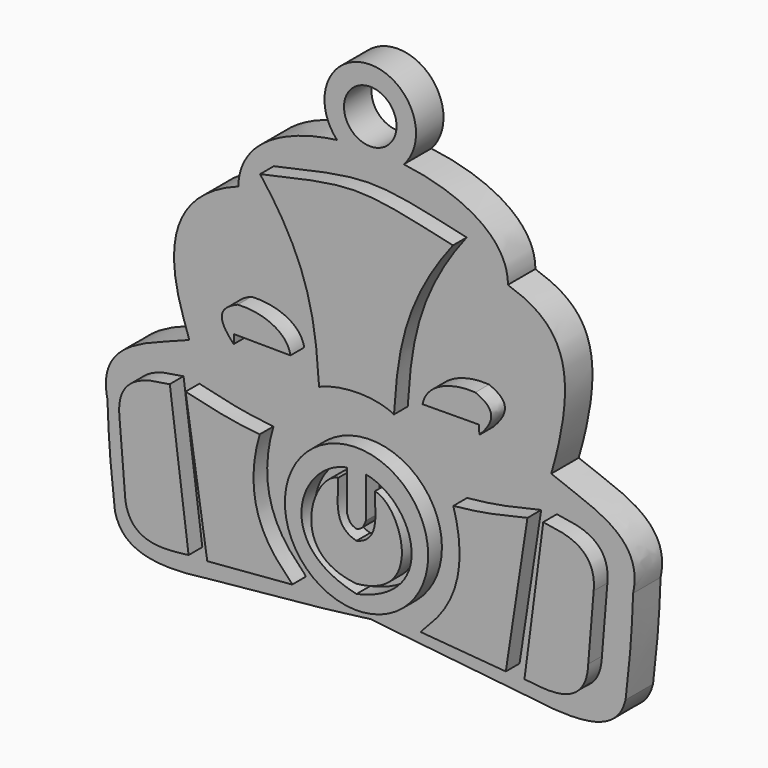
from build123d import *

# Parameters (mm, degrees)
F1_DEPTH = 7.62
F2_R     = 15.9024289895
F3_DEPTH = 3.81
F4_R     = 10.16
F4_R_2   = 5.8301463426
F5_DEPTH = 7.62


with BuildPart() as f1:
    # F0 (on Front) → F1 (new body)
    with BuildSketch(Plane.XZ):
        with BuildLine():
            add(Edge.make_bspline(
                [(-40.1583053172, -4.9346429296), (-41.517753154, 0), (-51.4870472252, 20.4417333007), (-29.2827170342, 28.5984221846)],
                knots=[0, 0, 0, 0, 35.2525868051, 35.2525868051, 35.2525868051, 35.2525868051], degree=3))
            add(Edge.make_bspline(
                [(-40.1583053172, -4.9346429296), (-47.4086999893, -8.1066894345), (-60.9708949924, -10.3864446282), (-58.3301782608, -22.388825193)],
                knots=[0, 0, 0, 0, 25.1965363645, 25.1965363645, 25.1965363645, 25.1965363645], degree=3))
            add(Edge.make_bspline(
                [(-56.6612333059, -43.7530614436), (-57.5675331056, -36.4271439612), (-58.0901131034, -29.8302993178), (-58.3301782608, -22.388825193)],
                knots=[0, 0, 0, 0, 21.4293249504, 21.4293249504, 21.4293249504, 21.4293249504], degree=3))
            add(Edge.make_bspline(
                [(-56.6612333059, -43.7530614436), (-55.5283613503, -48.0579771101), (-52.3933470249, -52.5153465569), (-36.3065376878, -50.2495989203)],
                knots=[0, 0, 0, 0, 21.3662966584, 21.3662966584, 21.3662966584, 21.3662966584], degree=3))
            add(Edge.make_bspline(
                [(-36.3065376878, -50.2495989203), (-2.5165608791, -47.1336860913), (-0.0633821424, -45.7783997594), (2.643325164, -46.8838522299), (36.3065376878, -50.2495989203)],
                knots=[0, 0, 0, 0, 0.5, 1, 1, 1, 1], degree=3))
            add(Edge.make_bspline(
                [(56.6612333059, -43.7530614436), (55.5283613503, -48.0579771101), (52.3933470249, -52.5153465569), (36.3065376878, -50.2495989203)],
                knots=[0, 0, 0, 0, 21.3662966584, 21.3662966584, 21.3662966584, 21.3662966584], degree=3))
            add(Edge.make_bspline(
                [(56.6612333059, -43.7530614436), (57.5675331056, -36.4271439612), (58.0901131034, -29.8302993178), (58.3301782608, -22.388825193)],
                knots=[0, 0, 0, 0, 21.4293249504, 21.4293249504, 21.4293249504, 21.4293249504], degree=3))
            add(Edge.make_bspline(
                [(40.1583053172, -4.9346429296), (47.4086999893, -8.1066894345), (60.9708949924, -10.3864446282), (58.3301782608, -22.388825193)],
                knots=[0, 0, 0, 0, 25.1965363645, 25.1965363645, 25.1965363645, 25.1965363645], degree=3))
            add(Edge.make_bspline(
                [(30.5330250412, 28.8249999285), (42.5414890051, 24.9732267112), (46.6400720179, 17.3897831701), (40.1583053172, -4.9346429296)],
                knots=[0, 0, 0, 0, 35.1049783691, 35.1049783691, 35.1049783691, 35.1049783691], degree=3))
            add(Edge.make_bspline(
                [(-29.2827170342, 28.5984221846), (-28.8021154702, 51.5458397567), (30.7341478765, 50.1055568457), (30.5330250412, 28.8249999285)],
                knots=[0, 0, 0, 0, 59.816171204, 59.816171204, 59.816171204, 59.816171204], degree=3))
        make_face()
    extrude(amount=F1_DEPTH)

    # F2 (on face) → F3 (join)
    with BuildSketch(Plane.XZ.offset(7.62)):
        with BuildLine():
            add(Edge.make_bspline(
                [(-8.3078695461, -2.173327608), (-9.086756967, 9.4867246225), (-10.0832600147, 20.5723419785), (-21.3999226689, 35.1223349571)],
                knots=[0, 0, 0, 0, 39.5268048436, 39.5268048436, 39.5268048436, 39.5268048436], degree=3))
            add(Edge.make_bspline(
                [(-8.3078695461, -2.173327608), (-3.2264096662, 0), (4.2422306724, 0), (8.3078695461, -2.173327608)],
                knots=[0, 0, 0, 0, 16.6157390922, 16.6157390922, 16.6157390922, 16.6157390922], degree=3))
            add(Edge.make_bspline(
                [(8.3078695461, -2.173327608), (9.086756967, 9.4867246225), (10.0832600147, 20.5723419785), (21.3999226689, 35.1223349571)],
                knots=[0, 0, 0, 0, 39.5268048436, 39.5268048436, 39.5268048436, 39.5268048436], degree=3))
            add(Edge.make_bspline(
                [(-21.3999226689, 35.1223349571), (0, 39.9668551981), (0, 39.9668551981), (21.3999226689, 35.1223349571)],
                knots=[0, 0, 0, 0, 42.7998453379, 42.7998453379, 42.7998453379, 42.7998453379], degree=3))
        make_face()
        with BuildLine():
            add(Edge.make_bspline(
                [(-37.9275381565, -12.7464113757), (-31.6863022745, -14.1866970807), (-28.6857057363, -15.0268636644), (-21.4842781425, -15.7470069826)],
                knots=[0, 0, 0, 0, 16.7147950596, 16.7147950596, 16.7147950596, 16.7147950596], degree=3))
            add(Edge.make_bspline(
                [(-37.9275381565, -12.7464113757), (-36.3272217413, -23.3885217458), (-34.726905326, -33.6705604568), (-33.1265889108, -44.3126708269)],
                knots=[0, 0, 0, 0, 31.9292632142, 31.9292632142, 31.9292632142, 31.9292632142], degree=3))
            add(Edge.make_bspline(
                [(-33.1265889108, -44.3126708269), (-27.5254780427, -43.6725442608), (-19.8839604855, -43.3924893538), (-14.2828496173, -42.7523627877)],
                knots=[0, 0, 0, 0, 18.9082276202, 18.9082276202, 18.9082276202, 18.9082276202], degree=3))
            add(Edge.make_bspline(
                [(-14.2828496173, -42.7523627877), (-15.3630636632, -40.7119579613), (-26.765326038, -33.7505787611), (-21.4842781425, -15.7470069826)],
                knots=[0, 0, 0, 0, 27.9490574969, 27.9490574969, 27.9490574969, 27.9490574969], degree=3))
        make_face()
        with BuildLine():
            add(Edge.make_bspline(
                [(37.9275381565, -12.7464113757), (36.3272217413, -23.3885217458), (34.726905326, -33.6705604568), (33.1265889108, -44.3126708269)],
                knots=[0, 0, 0, 0, 31.9292632142, 31.9292632142, 31.9292632142, 31.9292632142], degree=3))
            add(Edge.make_bspline(
                [(37.9275381565, -12.7464113757), (31.6863022745, -14.1866970807), (28.6857057363, -15.0268636644), (21.4842781425, -15.7470069826)],
                knots=[0, 0, 0, 0, 16.7147950596, 16.7147950596, 16.7147950596, 16.7147950596], degree=3))
            add(Edge.make_bspline(
                [(14.2828496173, -42.7523627877), (15.3630636632, -40.7119579613), (26.765326038, -33.7505787611), (21.4842781425, -15.7470069826)],
                knots=[0, 0, 0, 0, 27.9490574969, 27.9490574969, 27.9490574969, 27.9490574969], degree=3))
            add(Edge.make_bspline(
                [(33.1265889108, -44.3126708269), (27.5254780427, -43.6725442608), (19.8839604855, -43.3924893538), (14.2828496173, -42.7523627877)],
                knots=[0, 0, 0, 0, 18.9082276202, 18.9082276202, 18.9082276202, 18.9082276202], degree=3))
        make_face()
        with Locations((0, -27.2340420634)):
            Circle(F2_R)
        with BuildLine():
            add(Edge.make_bspline(
                [(-2.0750195254, -15.9081723541), (-12.8649724647, -17.8863294423), (-18.915290013, -35.7123315334), (0, -39.9451851845)],
                knots=[0, 0, 0, 0, 24.1264106704, 24.1264106704, 24.1264106704, 24.1264106704], degree=3))
            add(Edge.make_bspline(
                [(-2.0750195254, -15.9081723541), (-2.0750195254, -18.7184295307), (-2.0750195254, -22.1284379562), (-2.0750195254, -24.9386951327)],
                knots=[0, 0, 0, 0, 9.0305227786, 9.0305227786, 9.0305227786, 9.0305227786], degree=3))
            add(Edge.make_bspline(
                [(0, -27.2340420634), (-1.0937100742, -26.8915854394), (-1.5223931987, -26.6057960689), (-2.0750195254, -24.9386951327)],
                knots=[0, 0, 0, 0, 3.0942403854, 3.0942403854, 3.0942403854, 3.0942403854], degree=3))
            add(Edge.make_bspline(
                [(0, -27.2340420634), (1.0937100742, -26.8915854394), (1.5223931987, -26.6057960689), (2.0750195254, -24.9386951327)],
                knots=[0, 0, 0, 0, 3.0942403854, 3.0942403854, 3.0942403854, 3.0942403854], degree=3))
            add(Edge.make_bspline(
                [(2.0750195254, -15.9081723541), (2.0750195254, -18.7184295307), (2.0750195254, -22.1284379562), (2.0750195254, -24.9386951327)],
                knots=[0, 0, 0, 0, 9.0305227786, 9.0305227786, 9.0305227786, 9.0305227786], degree=3))
            add(Edge.make_bspline(
                [(2.0750195254, -15.9081723541), (12.8649724647, -17.8863294423), (18.915290013, -35.7123315334), (0, -39.9451851845)],
                knots=[0, 0, 0, 0, 24.1264106704, 24.1264106704, 24.1264106704, 24.1264106704], degree=3))
        make_face(mode=Mode.SUBTRACT)
        with BuildLine():
            add(Edge.make_bspline(
                [(-27.2567737848, 0), (-30.9433415532, 3.7768308539), (-30.8534242213, 6.2045697123), (-26.3576116413, 8.0028949305)],
                knots=[0, 0, 0, 0, 8.0532490232, 8.0532490232, 8.0532490232, 8.0532490232], degree=3))
            add(Edge.make_bspline(
                [(-27.2567737848, 0), (-27.2268019617, 0.6595018009), (-27.1968301386, 1.3190036019), (-27.1668583155, 1.9785054028)],
                knots=[0, 0, 0, 0, 1.9805475052, 1.9805475052, 1.9805475052, 1.9805475052], degree=3))
            add(Edge.make_bspline(
                [(-27.1668583155, 1.9785054028), (-23.3604032546, 1.9185612909), (-18.4749532491, 1.9485333469), (-14.6684981883, 1.888589235)],
                knots=[0, 0, 0, 0, 12.4986835621, 12.4986835621, 12.4986835621, 12.4986835621], degree=3))
            add(Edge.make_bspline(
                [(-26.3576116413, 8.0028949305), (-21.6819662601, 8.3625596017), (-15.4777439311, 6.5642346162), (-14.6684981883, 1.888589235)],
                knots=[0, 0, 0, 0, 13.1916681074, 13.1916681074, 13.1916681074, 13.1916681074], degree=3))
        make_face()
        with BuildLine():
            add(Edge.make_bspline(
                [(27.1668583155, 1.9785054028), (23.3604032546, 1.9185612909), (18.4749532491, 1.9485333469), (14.6684981883, 1.888589235)],
                knots=[0, 0, 0, 0, 12.4986835621, 12.4986835621, 12.4986835621, 12.4986835621], degree=3))
            add(Edge.make_bspline(
                [(27.2567737848, 0), (27.2268019617, 0.6595018009), (27.1968301386, 1.3190036019), (27.1668583155, 1.9785054028)],
                knots=[0, 0, 0, 0, 1.9805475052, 1.9805475052, 1.9805475052, 1.9805475052], degree=3))
            add(Edge.make_bspline(
                [(27.2567737848, 0), (30.9433415532, 3.7768308539), (30.8534242213, 6.2045697123), (26.3576116413, 8.0028949305)],
                knots=[0, 0, 0, 0, 8.0532490232, 8.0532490232, 8.0532490232, 8.0532490232], degree=3))
            add(Edge.make_bspline(
                [(26.3576116413, 8.0028949305), (21.6819662601, 8.3625596017), (15.4777439311, 6.5642346162), (14.6684981883, 1.888589235)],
                knots=[0, 0, 0, 0, 13.1916681074, 13.1916681074, 13.1916681074, 13.1916681074], degree=3))
        make_face()
        with BuildLine():
            add(Edge.make_bspline(
                [(-41.4377003908, -12.4243153259), (-40.0455705822, -23.1122734646), (-38.6586152017, -33.7793159609), (-37.266485393, -44.4672740996)],
                knots=[0, 0, 0, 0, 32.3133136885, 32.3133136885, 32.3133136885, 32.3133136885], degree=3))
            add(Edge.make_bspline(
                [(-41.4377003908, -12.4243153259), (-42.9196432233, -12.9632046446), (-53.5353459418, -12.4243153259), (-52.6248142123, -22.238118574)],
                knots=[0, 0, 0, 0, 14.8816077709, 14.8816077709, 14.8816077709, 14.8816077709], degree=3))
            add(Edge.make_bspline(
                [(-52.6248142123, -22.238118574), (-52.2206475337, -27.1330239872), (-51.8164808551, -32.0279294004), (-51.4123141766, -36.9228348136)],
                knots=[0, 0, 0, 0, 14.734688574, 14.734688574, 14.734688574, 14.734688574], degree=3))
            add(Edge.make_bspline(
                [(-37.266485393, -44.4672740996), (-40.2303747833, -44.6019992232), (-50.9896054864, -47.4779568613), (-51.4123141766, -36.9228348136)],
                knots=[0, 0, 0, 0, 16.0319380024, 16.0319380024, 16.0319380024, 16.0319380024], degree=3))
        make_face()
        with BuildLine():
            add(Edge.make_bspline(
                [(41.4377003908, -12.4243153259), (40.0455705822, -23.1122734646), (38.6586152017, -33.7793159609), (37.266485393, -44.4672740996)],
                knots=[0, 0, 0, 0, 32.3133136885, 32.3133136885, 32.3133136885, 32.3133136885], degree=3))
            add(Edge.make_bspline(
                [(37.266485393, -44.4672740996), (40.2303747833, -44.6019992232), (50.9896054864, -47.4779568613), (51.4123141766, -36.9228348136)],
                knots=[0, 0, 0, 0, 16.0319380024, 16.0319380024, 16.0319380024, 16.0319380024], degree=3))
            add(Edge.make_bspline(
                [(52.6248142123, -22.238118574), (52.2206475337, -27.1330239872), (51.8164808551, -32.0279294004), (51.4123141766, -36.9228348136)],
                knots=[0, 0, 0, 0, 14.734688574, 14.734688574, 14.734688574, 14.734688574], degree=3))
            add(Edge.make_bspline(
                [(41.4377003908, -12.4243153259), (42.9196432233, -12.9632046446), (53.5353459418, -12.4243153259), (52.6248142123, -22.238118574)],
                knots=[0, 0, 0, 0, 14.8816077709, 14.8816077709, 14.8816077709, 14.8816077709], degree=3))
        make_face()
        with BuildLine():
            add(Edge.make_bspline(
                [(-4.0536094457, -18.5686070472), (-3.9403215051, -21.8539424241), (-5.6396326981, -28.1980354339), (0, -29.5574832708)],
                knots=[0, 0, 0, 0, 11.7126918424, 11.7126918424, 11.7126918424, 11.7126918424], degree=3))
            add(Edge.make_bspline(
                [(-4.0536094457, -18.5686070472), (-9.7179785371, -19.3616189063), (-15.7222095877, -36.4680141211), (0, -37.9407517612)],
                knots=[0, 0, 0, 0, 19.7917088792, 19.7917088792, 19.7917088792, 19.7917088792], degree=3))
            add(Edge.make_bspline(
                [(4.0536094457, -18.5686070472), (9.7179785371, -19.3616189063), (15.7222095877, -36.4680141211), (0, -37.9407517612)],
                knots=[0, 0, 0, 0, 19.7917088792, 19.7917088792, 19.7917088792, 19.7917088792], degree=3))
            add(Edge.make_bspline(
                [(4.0536094457, -18.5686070472), (3.9403215051, -21.8539424241), (5.6396326981, -28.1980354339), (0, -29.5574832708)],
                knots=[0, 0, 0, 0, 11.7126918424, 11.7126918424, 11.7126918424, 11.7126918424], degree=3))
        make_face()
    extrude(amount=F3_DEPTH)

    # F4 (on Front) → F5 (join)
    with BuildSketch(Plane.XZ):
        with Locations((0, 51.7794676125)):
            Circle(F4_R)
        with Locations((0, 51.7794676125)):
            Circle(F4_R_2, mode=Mode.SUBTRACT)
    extrude(amount=F5_DEPTH)


solid = f1.part
